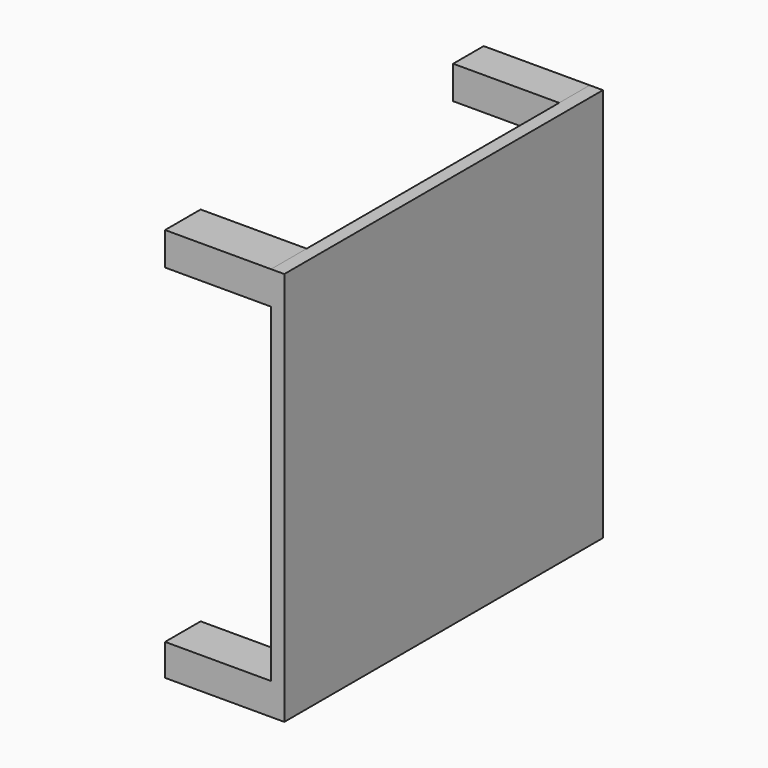
from build123d import *

# Parameters (mm, degrees)
F0_W     = 152.718648
F0_H     = 151.175618
F1_DEPTH = 5.08
F2_W     = 17.048612
F2_H     = 12.668729
F2_H_2   = 12.154296
F2_W_2   = 14.626164
F2_W_3   = 14.402956
F3_DEPTH = 40.64


with BuildPart() as f1:
    # F0 (on Right) → F1 (new body)
    with BuildSketch(Plane.YZ):
        with Locations((0.280224, -0.140108)):
            Rectangle(F0_W, F0_H)
    extrude(amount=F1_DEPTH)

    # F2 (on face) → F3 (join)
    with BuildSketch(Plane(origin=(0, 0, 0), x_dir=(0, -1, 0), z_dir=(-1, 0, 0))):
        with Locations((67.554794, 69.113337)):
            Rectangle(F2_W, F2_H)
        with Locations((67.554794, -69.650769)):
            Rectangle(F2_W, F2_H_2)
        with Locations((-69.326466, 69.113337)):
            Rectangle(F2_W_2, F2_H)
        with Locations((-69.43807, -69.650769)):
            Rectangle(F2_W_3, F2_H_2)
    extrude(amount=F3_DEPTH)


solid = f1.part
